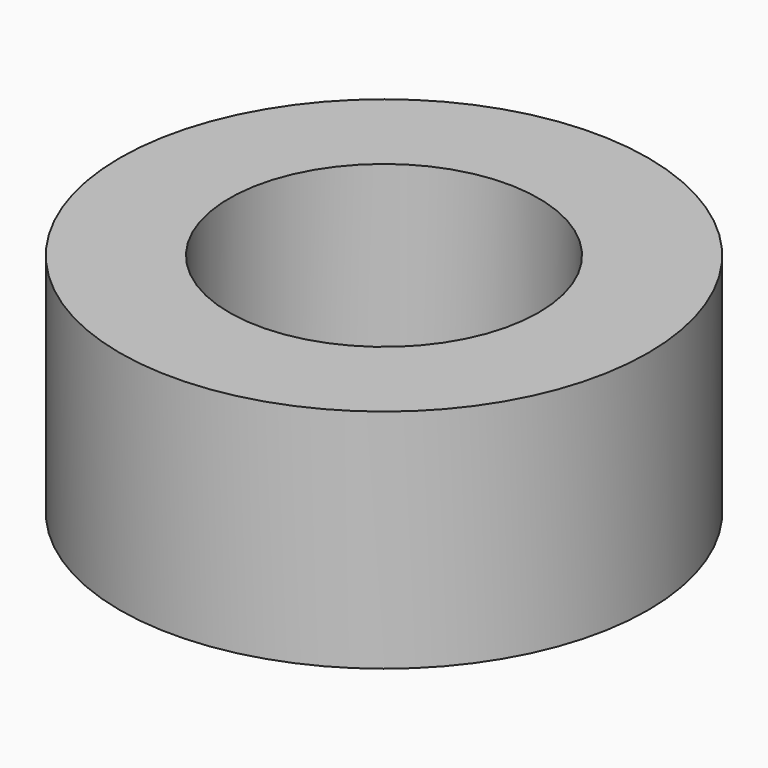
from build123d import *

# Parameters (mm, degrees)
SKETCH_R   = 3.5
SKETCH_R_2 = 2.05
PAD_DEPTH  = 3


with BuildPart() as part:
    # Sketch → Pad (new body)
    with BuildSketch(Plane.XY.offset(5)):
        Circle(SKETCH_R)
        Circle(SKETCH_R_2, mode=Mode.SUBTRACT)
    extrude(amount=PAD_DEPTH)


solid = part.part
